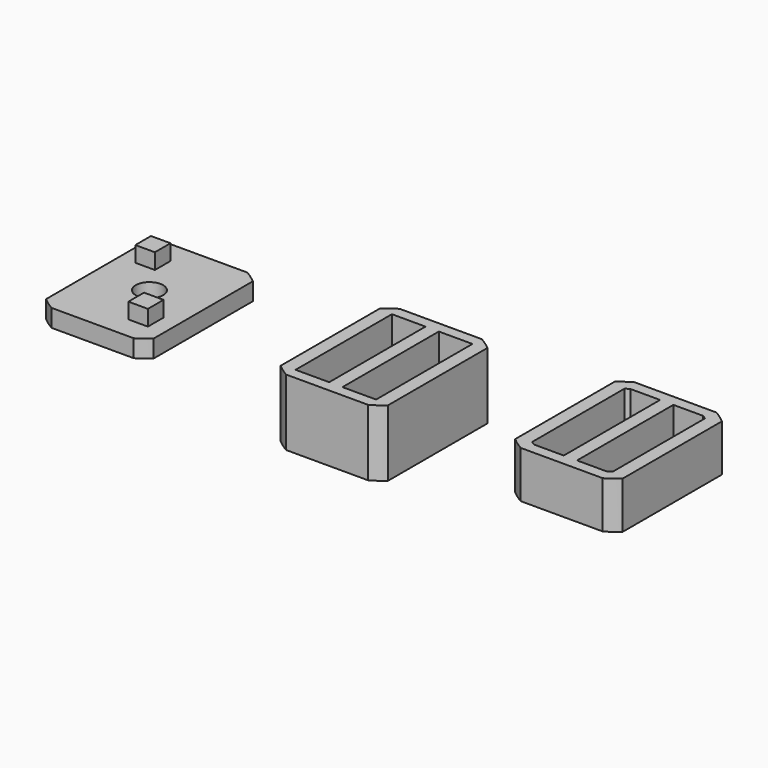
from build123d import *

# Parameters (mm, degrees)
F1_DEPTH  = 4.5
F2_DEPTH  = 4
F3_R      = 1.5
F4_DEPTH  = 1
F5_DEPTH  = 2.25
F6_R      = 1.75
F7_DEPTH  = 25
F8_W      = 2.5
F8_H      = 2.5
F9_DEPTH  = 2
F10_DEPTH = 6
F11_DEPTH = 2
F12_W     = 2.85
F12_H     = 2.85
F13_DEPTH = 25


with BuildPart() as f1:
    # F0 (on Top) → F1 (new body)
    with BuildSketch(Plane.XY):
        with BuildLine():
            Line((6.8591180191, -5.8268773799), (6.8591180191, 5.8268773799))
            ThreePointArc((6.8591180191, 5.8268773799), (6.0546235017, 6.6589439292), (5.15, 7.3808874805))
            Line((5.15, 7.3808874805), (5.15, -7.3808874805))
            ThreePointArc((5.15, -7.3808874805), (6.0546235017, -6.6589439292), (6.8591180191, -5.8268773799))
        make_face()
        with BuildLine():
            Line((6.8591180191, 5.8268773799), (6.8591180191, 7.95))
            ThreePointArc((6.8591180191, 7.95), (6.0814841535, 8.5595298054), (5.25, 9.0932667397))
            Line((5.25, 9.0932667397), (-5.25, 9.0932667397))
            ThreePointArc((-5.25, 9.0932667397), (-6.0814841535, 8.5595298054), (-6.8591180191, 7.95))
            Line((-6.8591180191, 7.95), (-6.8591180191, 5.8268773799))
            ThreePointArc((-6.8591180191, 5.8268773799), (-6.0546235017, 6.6589439292), (-5.15, 7.3808874805))
            Line((-5.15, 7.3808874805), (-5.15, 7.7))
            Line((-5.15, 7.7), (-4.6593991029, 7.7))
            ThreePointArc((-4.6593991029, 7.7), (0, 9), (4.6593991029, 7.7))
            Line((4.6593991029, 7.7), (5.15, 7.7))
            Line((5.15, 7.7), (5.15, 7.3808874805))
            ThreePointArc((5.15, 7.3808874805), (6.0546235017, 6.6589439292), (6.8591180191, 5.8268773799))
        make_face()
        with BuildLine():
            Line((0.85, 7.7), (4.6593991029, 7.7))
            ThreePointArc((4.6593991029, 7.7), (0, 9), (-4.6593991029, 7.7))
            Line((-4.6593991029, 7.7), (-0.85, 7.7))
            Line((-0.85, 7.7), (-0.85, -7.7))
            Line((-0.85, -7.7), (-4.6593991029, -7.7))
            ThreePointArc((-4.6593991029, -7.7), (0, -9), (4.6593991029, -7.7))
            Line((4.6593991029, -7.7), (0.85, -7.7))
            Line((0.85, -7.7), (0.85, 7.7))
        make_face()
        with BuildLine():
            ThreePointArc((-5.15, 7.3808874805), (-6.0546235017, 6.6589439292), (-6.8591180191, 5.8268773799))
            Line((-6.8591180191, 5.8268773799), (-6.8591180191, -5.8268773799))
            ThreePointArc((-6.8591180191, -5.8268773799), (-6.0546235017, -6.6589439292), (-5.15, -7.3808874805))
            Line((-5.15, -7.3808874805), (-5.15, 7.3808874805))
        make_face()
        with BuildLine():
            ThreePointArc((5.25, -9.0932667397), (6.0814841535, -8.5595298054), (6.8591180191, -7.95))
            Line((6.8591180191, -7.95), (6.8591180191, -5.8268773799))
            ThreePointArc((6.8591180191, -5.8268773799), (6.0546235017, -6.6589439292), (5.15, -7.3808874805))
            Line((5.15, -7.3808874805), (5.15, -7.7))
            Line((5.15, -7.7), (4.6593991029, -7.7))
            ThreePointArc((4.6593991029, -7.7), (0, -9), (-4.6593991029, -7.7))
            Line((-4.6593991029, -7.7), (-5.15, -7.7))
            Line((-5.15, -7.7), (-5.15, -7.3808874805))
            ThreePointArc((-5.15, -7.3808874805), (-6.0546235017, -6.6589439292), (-6.8591180191, -5.8268773799))
            Line((-6.8591180191, -5.8268773799), (-6.8591180191, -7.95))
            ThreePointArc((-6.8591180191, -7.95), (-6.0814841535, -8.5595298054), (-5.25, -9.0932667397))
            Line((-5.25, -9.0932667397), (5.25, -9.0932667397))
        make_face()
    extrude(amount=F1_DEPTH)

    # F0 (on Top) → F2 (join)
    with BuildSketch(Plane.XY):
        with BuildLine():
            Line((5.15, -7.3808874805), (5.15, 7.3808874805))
            ThreePointArc((5.15, 7.3808874805), (4.9072941516, 7.5444326566), (4.6593991029, 7.7))
            Line((4.6593991029, 7.7), (0.85, 7.7))
            Line((0.85, 7.7), (0.85, -7.7))
            Line((0.85, -7.7), (4.6593991029, -7.7))
            ThreePointArc((4.6593991029, -7.7), (4.9072941516, -7.5444326566), (5.15, -7.3808874805))
        make_face()
        with BuildLine():
            Line((-0.85, 7.7), (-4.6593991029, 7.7))
            ThreePointArc((-4.6593991029, 7.7), (-4.9072941516, 7.5444326566), (-5.15, 7.3808874805))
            Line((-5.15, 7.3808874805), (-5.15, -7.3808874805))
            ThreePointArc((-5.15, -7.3808874805), (-4.9072941516, -7.5444326566), (-4.6593991029, -7.7))
            Line((-4.6593991029, -7.7), (-0.85, -7.7))
            Line((-0.85, -7.7), (-0.85, 7.7))
        make_face()
        with BuildLine():
            Line((0.85, 7.7), (4.6593991029, 7.7))
            ThreePointArc((4.6593991029, 7.7), (0, 9), (-4.6593991029, 7.7))
            Line((-4.6593991029, 7.7), (-0.85, 7.7))
            Line((-0.85, 7.7), (-0.85, -7.7))
            Line((-0.85, -7.7), (-4.6593991029, -7.7))
            ThreePointArc((-4.6593991029, -7.7), (0, -9), (4.6593991029, -7.7))
            Line((4.6593991029, -7.7), (0.85, -7.7))
            Line((0.85, -7.7), (0.85, 7.7))
        make_face()
        with BuildLine():
            Line((6.8591180191, 5.8268773799), (6.8591180191, 7.95))
            ThreePointArc((6.8591180191, 7.95), (6.0814841535, 8.5595298054), (5.25, 9.0932667397))
            Line((5.25, 9.0932667397), (-5.25, 9.0932667397))
            ThreePointArc((-5.25, 9.0932667397), (-6.0814841535, 8.5595298054), (-6.8591180191, 7.95))
            Line((-6.8591180191, 7.95), (-6.8591180191, 5.8268773799))
            ThreePointArc((-6.8591180191, 5.8268773799), (-6.0546235017, 6.6589439292), (-5.15, 7.3808874805))
            Line((-5.15, 7.3808874805), (-5.15, 7.7))
            Line((-5.15, 7.7), (-4.6593991029, 7.7))
            ThreePointArc((-4.6593991029, 7.7), (0, 9), (4.6593991029, 7.7))
            Line((4.6593991029, 7.7), (5.15, 7.7))
            Line((5.15, 7.7), (5.15, 7.3808874805))
            ThreePointArc((5.15, 7.3808874805), (6.0546235017, 6.6589439292), (6.8591180191, 5.8268773799))
        make_face()
        with BuildLine():
            Line((6.8591180191, -5.8268773799), (6.8591180191, 5.8268773799))
            ThreePointArc((6.8591180191, 5.8268773799), (6.0546235017, 6.6589439292), (5.15, 7.3808874805))
            Line((5.15, 7.3808874805), (5.15, -7.3808874805))
            ThreePointArc((5.15, -7.3808874805), (6.0546235017, -6.6589439292), (6.8591180191, -5.8268773799))
        make_face()
        with BuildLine():
            ThreePointArc((4.6593991029, 7.7), (4.9072941516, 7.5444326566), (5.15, 7.3808874805))
            Line((5.15, 7.3808874805), (5.15, 7.7))
            Line((5.15, 7.7), (4.6593991029, 7.7))
        make_face()
        with BuildLine():
            ThreePointArc((5.25, -9.0932667397), (6.0814841535, -8.5595298054), (6.8591180191, -7.95))
            Line((6.8591180191, -7.95), (6.8591180191, -5.8268773799))
            ThreePointArc((6.8591180191, -5.8268773799), (6.0546235017, -6.6589439292), (5.15, -7.3808874805))
            Line((5.15, -7.3808874805), (5.15, -7.7))
            Line((5.15, -7.7), (4.6593991029, -7.7))
            ThreePointArc((4.6593991029, -7.7), (0, -9), (-4.6593991029, -7.7))
            Line((-4.6593991029, -7.7), (-5.15, -7.7))
            Line((-5.15, -7.7), (-5.15, -7.3808874805))
            ThreePointArc((-5.15, -7.3808874805), (-6.0546235017, -6.6589439292), (-6.8591180191, -5.8268773799))
            Line((-6.8591180191, -5.8268773799), (-6.8591180191, -7.95))
            ThreePointArc((-6.8591180191, -7.95), (-6.0814841535, -8.5595298054), (-5.25, -9.0932667397))
            Line((-5.25, -9.0932667397), (5.25, -9.0932667397))
        make_face()
        with BuildLine():
            ThreePointArc((-5.15, 7.3808874805), (-6.0546235017, 6.6589439292), (-6.8591180191, 5.8268773799))
            Line((-6.8591180191, 5.8268773799), (-6.8591180191, -5.8268773799))
            ThreePointArc((-6.8591180191, -5.8268773799), (-6.0546235017, -6.6589439292), (-5.15, -7.3808874805))
            Line((-5.15, -7.3808874805), (-5.15, 7.3808874805))
        make_face()
        with BuildLine():
            ThreePointArc((-5.15, 7.3808874805), (-4.9072941516, 7.5444326566), (-4.6593991029, 7.7))
            Line((-4.6593991029, 7.7), (-5.15, 7.7))
            Line((-5.15, 7.7), (-5.15, 7.3808874805))
        make_face()
        with BuildLine():
            Line((-5.15, -7.7), (-4.6593991029, -7.7))
            ThreePointArc((-4.6593991029, -7.7), (-4.9072941516, -7.5444326566), (-5.15, -7.3808874805))
            Line((-5.15, -7.3808874805), (-5.15, -7.7))
        make_face()
        with BuildLine():
            Line((5.15, -7.7), (5.15, -7.3808874805))
            ThreePointArc((5.15, -7.3808874805), (4.9072941516, -7.5444326566), (4.6593991029, -7.7))
            Line((4.6593991029, -7.7), (5.15, -7.7))
        make_face()
    extrude(amount=-F2_DEPTH)

    # F3 (on face) → F4 (cut)
    with BuildSketch(Plane(origin=(0, 0, -4), x_dir=(1, 0, 0), z_dir=(0, 0, -1))):
        Circle(F3_R)
    extrude(amount=-F4_DEPTH, mode=Mode.SUBTRACT)


with BuildPart() as f5:
    # F0 (on Top) → F5 (new body)
    with BuildSketch(Plane.XY):
        with BuildLine():
            ThreePointArc((-35.25, 9.0932667397), (-36.0814841535, 8.5595298054), (-36.8591180191, 7.95))
            Line((-36.8591180191, 7.95), (-36.8591180191, 5.8268773799))
            ThreePointArc((-36.8591180191, 5.8268773799), (-36.0546235017, 6.6589439292), (-35.15, 7.3808874805))
            Line((-35.15, 7.3808874805), (-35.15, 7.7))
            Line((-35.15, 7.7), (-34.6593991029, 7.7))
            ThreePointArc((-34.6593991029, 7.7), (-30, 9), (-25.3406008971, 7.7))
            Line((-25.3406008971, 7.7), (-24.85, 7.7))
            Line((-24.85, 7.7), (-24.85, 7.3808874805))
            ThreePointArc((-24.85, 7.3808874805), (-23.9453764983, 6.6589439292), (-23.1408819809, 5.8268773799))
            Line((-23.1408819809, 5.8268773799), (-23.1408819809, 7.95))
            ThreePointArc((-23.1408819809, 7.95), (-23.9185158465, 8.5595298054), (-24.75, 9.0932667397))
            Line((-24.75, 9.0932667397), (-35.25, 9.0932667397))
        make_face()
        with BuildLine():
            Line((-36.8591180191, 5.8268773799), (-36.8591180191, -5.8268773799))
            ThreePointArc((-36.8591180191, -5.8268773799), (-36.0546235017, -6.6589439292), (-35.15, -7.3808874805))
            Line((-35.15, -7.3808874805), (-35.15, 7.3808874805))
            ThreePointArc((-35.15, 7.3808874805), (-36.0546235017, 6.6589439292), (-36.8591180191, 5.8268773799))
        make_face()
        with BuildLine():
            Line((-35.15, 7.7), (-35.15, 7.3808874805))
            ThreePointArc((-35.15, 7.3808874805), (-34.9072941516, 7.5444326566), (-34.6593991029, 7.7))
            Line((-34.6593991029, 7.7), (-35.15, 7.7))
        make_face()
        with BuildLine():
            ThreePointArc((-34.6593991029, -7.7), (-30, -9), (-25.3406008971, -7.7))
            Line((-25.3406008971, -7.7), (-29.15, -7.7))
            Line((-29.15, -7.7), (-29.15, 7.7))
            Line((-29.15, 7.7), (-25.3406008971, 7.7))
            ThreePointArc((-25.3406008971, 7.7), (-30, 9), (-34.6593991029, 7.7))
            Line((-34.6593991029, 7.7), (-30.85, 7.7))
            Line((-30.85, 7.7), (-30.85, -7.7))
            Line((-30.85, -7.7), (-34.6593991029, -7.7))
        make_face()
        with BuildLine():
            Line((-35.15, 7.3808874805), (-35.15, -7.3808874805))
            ThreePointArc((-35.15, -7.3808874805), (-34.9072941516, -7.5444326566), (-34.6593991029, -7.7))
            Line((-34.6593991029, -7.7), (-30.85, -7.7))
            Line((-30.85, -7.7), (-30.85, 7.7))
            Line((-30.85, 7.7), (-34.6593991029, 7.7))
            ThreePointArc((-34.6593991029, 7.7), (-34.9072941516, 7.5444326566), (-35.15, 7.3808874805))
        make_face()
        with BuildLine():
            ThreePointArc((-25.3406008971, -7.7), (-25.0927058484, -7.5444326566), (-24.85, -7.3808874805))
            Line((-24.85, -7.3808874805), (-24.85, 7.3808874805))
            ThreePointArc((-24.85, 7.3808874805), (-25.0927058484, 7.5444326566), (-25.3406008971, 7.7))
            Line((-25.3406008971, 7.7), (-29.15, 7.7))
            Line((-29.15, 7.7), (-29.15, -7.7))
            Line((-29.15, -7.7), (-25.3406008971, -7.7))
        make_face()
        with BuildLine():
            ThreePointArc((-25.3406008971, 7.7), (-25.0927058484, 7.5444326566), (-24.85, 7.3808874805))
            Line((-24.85, 7.3808874805), (-24.85, 7.7))
            Line((-24.85, 7.7), (-25.3406008971, 7.7))
        make_face()
        with BuildLine():
            ThreePointArc((-24.85, -7.3808874805), (-23.9453764983, -6.6589439292), (-23.1408819809, -5.8268773799))
            Line((-23.1408819809, -5.8268773799), (-23.1408819809, 5.8268773799))
            ThreePointArc((-23.1408819809, 5.8268773799), (-23.9453764983, 6.6589439292), (-24.85, 7.3808874805))
            Line((-24.85, 7.3808874805), (-24.85, -7.3808874805))
        make_face()
        with BuildLine():
            Line((-35.25, -9.0932667397), (-24.75, -9.0932667397))
            ThreePointArc((-24.75, -9.0932667397), (-23.9185158465, -8.5595298054), (-23.1408819809, -7.95))
            Line((-23.1408819809, -7.95), (-23.1408819809, -5.8268773799))
            ThreePointArc((-23.1408819809, -5.8268773799), (-23.9453764983, -6.6589439292), (-24.85, -7.3808874805))
            Line((-24.85, -7.3808874805), (-24.85, -7.7))
            Line((-24.85, -7.7), (-25.3406008971, -7.7))
            ThreePointArc((-25.3406008971, -7.7), (-30, -9), (-34.6593991029, -7.7))
            Line((-34.6593991029, -7.7), (-35.15, -7.7))
            Line((-35.15, -7.7), (-35.15, -7.3808874805))
            ThreePointArc((-35.15, -7.3808874805), (-36.0546235017, -6.6589439292), (-36.8591180191, -5.8268773799))
            Line((-36.8591180191, -5.8268773799), (-36.8591180191, -7.95))
            ThreePointArc((-36.8591180191, -7.95), (-36.0814841535, -8.5595298054), (-35.25, -9.0932667397))
        make_face()
        with BuildLine():
            Line((-24.85, -7.7), (-24.85, -7.3808874805))
            ThreePointArc((-24.85, -7.3808874805), (-25.0927058484, -7.5444326566), (-25.3406008971, -7.7))
            Line((-25.3406008971, -7.7), (-24.85, -7.7))
        make_face()
        with BuildLine():
            ThreePointArc((-34.6593991029, -7.7), (-34.9072941516, -7.5444326566), (-35.15, -7.3808874805))
            Line((-35.15, -7.3808874805), (-35.15, -7.7))
            Line((-35.15, -7.7), (-34.6593991029, -7.7))
        make_face()
    extrude(amount=F5_DEPTH)

    # F6 (on face) → F7 (cut)
    with BuildSketch(Plane.XY.offset(2.25)):
        with Locations((-30, 0)):
            Circle(F6_R)
    extrude(amount=-F7_DEPTH, mode=Mode.SUBTRACT)

    # F8 (on face) → F9 (join)
    with BuildSketch(Plane.XY.offset(2.25)):
        with Locations((-33.5524639155, 5)):
            Rectangle(F8_W, F8_H)
        with Locations((-26.4475360845, -5)):
            Rectangle(F8_W, F8_H)
    extrude(amount=F9_DEPTH)


with BuildPart() as f10:
    # F0 (on Top) → F10 (new body)
    with BuildSketch(Plane.XY):
        with BuildLine():
            ThreePointArc((25.3406008971, -7.7), (30, -9), (34.6593991029, -7.7))
            Line((34.6593991029, -7.7), (30.85, -7.7))
            Line((30.85, -7.7), (30.85, 7.7))
            Line((30.85, 7.7), (34.6593991029, 7.7))
            ThreePointArc((34.6593991029, 7.7), (30, 9), (25.3406008971, 7.7))
            Line((25.3406008971, 7.7), (29.15, 7.7))
            Line((29.15, 7.7), (29.15, -7.7))
            Line((29.15, -7.7), (25.3406008971, -7.7))
        make_face()
        with BuildLine():
            Line((24.75, -9.0932667397), (35.25, -9.0932667397))
            ThreePointArc((35.25, -9.0932667397), (36.0814841535, -8.5595298054), (36.8591180191, -7.95))
            Line((36.8591180191, -7.95), (36.8591180191, -5.8268773799))
            ThreePointArc((36.8591180191, -5.8268773799), (36.0546235017, -6.6589439292), (35.15, -7.3808874805))
            Line((35.15, -7.3808874805), (35.15, -7.7))
            Line((35.15, -7.7), (34.6593991029, -7.7))
            ThreePointArc((34.6593991029, -7.7), (30, -9), (25.3406008971, -7.7))
            Line((25.3406008971, -7.7), (24.85, -7.7))
            Line((24.85, -7.7), (24.85, -7.3808874805))
            ThreePointArc((24.85, -7.3808874805), (23.9453764983, -6.6589439292), (23.1408819809, -5.8268773799))
            Line((23.1408819809, -5.8268773799), (23.1408819809, -7.95))
            ThreePointArc((23.1408819809, -7.95), (23.9185158465, -8.5595298054), (24.75, -9.0932667397))
        make_face()
        with BuildLine():
            ThreePointArc((35.15, -7.3808874805), (36.0546235017, -6.6589439292), (36.8591180191, -5.8268773799))
            Line((36.8591180191, -5.8268773799), (36.8591180191, 5.8268773799))
            ThreePointArc((36.8591180191, 5.8268773799), (36.0546235017, 6.6589439292), (35.15, 7.3808874805))
            Line((35.15, 7.3808874805), (35.15, -7.3808874805))
        make_face()
        with BuildLine():
            ThreePointArc((24.75, 9.0932667397), (23.9185158465, 8.5595298054), (23.1408819809, 7.95))
            Line((23.1408819809, 7.95), (23.1408819809, 5.8268773799))
            ThreePointArc((23.1408819809, 5.8268773799), (23.9453764983, 6.6589439292), (24.85, 7.3808874805))
            Line((24.85, 7.3808874805), (24.85, 7.7))
            Line((24.85, 7.7), (25.3406008971, 7.7))
            ThreePointArc((25.3406008971, 7.7), (30, 9), (34.6593991029, 7.7))
            Line((34.6593991029, 7.7), (35.15, 7.7))
            Line((35.15, 7.7), (35.15, 7.3808874805))
            ThreePointArc((35.15, 7.3808874805), (36.0546235017, 6.6589439292), (36.8591180191, 5.8268773799))
            Line((36.8591180191, 5.8268773799), (36.8591180191, 7.95))
            ThreePointArc((36.8591180191, 7.95), (36.0814841535, 8.5595298054), (35.25, 9.0932667397))
            Line((35.25, 9.0932667397), (24.75, 9.0932667397))
        make_face()
        with BuildLine():
            Line((23.1408819809, 5.8268773799), (23.1408819809, -5.8268773799))
            ThreePointArc((23.1408819809, -5.8268773799), (23.9453764983, -6.6589439292), (24.85, -7.3808874805))
            Line((24.85, -7.3808874805), (24.85, 7.3808874805))
            ThreePointArc((24.85, 7.3808874805), (23.9453764983, 6.6589439292), (23.1408819809, 5.8268773799))
        make_face()
        with BuildLine():
            Line((24.85, 7.7), (24.85, 7.3808874805))
            ThreePointArc((24.85, 7.3808874805), (25.0927058484, 7.5444326566), (25.3406008971, 7.7))
            Line((25.3406008971, 7.7), (24.85, 7.7))
        make_face()
        with BuildLine():
            ThreePointArc((34.6593991029, 7.7), (34.9072941516, 7.5444326566), (35.15, 7.3808874805))
            Line((35.15, 7.3808874805), (35.15, 7.7))
            Line((35.15, 7.7), (34.6593991029, 7.7))
        make_face()
        with BuildLine():
            Line((35.15, -7.7), (35.15, -7.3808874805))
            ThreePointArc((35.15, -7.3808874805), (34.9072941516, -7.5444326566), (34.6593991029, -7.7))
            Line((34.6593991029, -7.7), (35.15, -7.7))
        make_face()
        with BuildLine():
            ThreePointArc((25.3406008971, -7.7), (25.0927058484, -7.5444326566), (24.85, -7.3808874805))
            Line((24.85, -7.3808874805), (24.85, -7.7))
            Line((24.85, -7.7), (25.3406008971, -7.7))
        make_face()
    extrude(amount=F10_DEPTH)

    # F0 (on Top) → F11 (join)
    with BuildSketch(Plane.XY):
        with BuildLine():
            Line((23.1408819809, 5.8268773799), (23.1408819809, -5.8268773799))
            ThreePointArc((23.1408819809, -5.8268773799), (23.9453764983, -6.6589439292), (24.85, -7.3808874805))
            Line((24.85, -7.3808874805), (24.85, 7.3808874805))
            ThreePointArc((24.85, 7.3808874805), (23.9453764983, 6.6589439292), (23.1408819809, 5.8268773799))
        make_face()
        with BuildLine():
            Line((24.85, 7.3808874805), (24.85, -7.3808874805))
            ThreePointArc((24.85, -7.3808874805), (25.0927058484, -7.5444326566), (25.3406008971, -7.7))
            Line((25.3406008971, -7.7), (29.15, -7.7))
            Line((29.15, -7.7), (29.15, 7.7))
            Line((29.15, 7.7), (25.3406008971, 7.7))
            ThreePointArc((25.3406008971, 7.7), (25.0927058484, 7.5444326566), (24.85, 7.3808874805))
        make_face()
        with BuildLine():
            ThreePointArc((25.3406008971, -7.7), (30, -9), (34.6593991029, -7.7))
            Line((34.6593991029, -7.7), (30.85, -7.7))
            Line((30.85, -7.7), (30.85, 7.7))
            Line((30.85, 7.7), (34.6593991029, 7.7))
            ThreePointArc((34.6593991029, 7.7), (30, 9), (25.3406008971, 7.7))
            Line((25.3406008971, 7.7), (29.15, 7.7))
            Line((29.15, 7.7), (29.15, -7.7))
            Line((29.15, -7.7), (25.3406008971, -7.7))
        make_face()
        with BuildLine():
            ThreePointArc((34.6593991029, -7.7), (34.9072941516, -7.5444326566), (35.15, -7.3808874805))
            Line((35.15, -7.3808874805), (35.15, 7.3808874805))
            ThreePointArc((35.15, 7.3808874805), (34.9072941516, 7.5444326566), (34.6593991029, 7.7))
            Line((34.6593991029, 7.7), (30.85, 7.7))
            Line((30.85, 7.7), (30.85, -7.7))
            Line((30.85, -7.7), (34.6593991029, -7.7))
        make_face()
        with BuildLine():
            Line((24.75, -9.0932667397), (35.25, -9.0932667397))
            ThreePointArc((35.25, -9.0932667397), (36.0814841535, -8.5595298054), (36.8591180191, -7.95))
            Line((36.8591180191, -7.95), (36.8591180191, -5.8268773799))
            ThreePointArc((36.8591180191, -5.8268773799), (36.0546235017, -6.6589439292), (35.15, -7.3808874805))
            Line((35.15, -7.3808874805), (35.15, -7.7))
            Line((35.15, -7.7), (34.6593991029, -7.7))
            ThreePointArc((34.6593991029, -7.7), (30, -9), (25.3406008971, -7.7))
            Line((25.3406008971, -7.7), (24.85, -7.7))
            Line((24.85, -7.7), (24.85, -7.3808874805))
            ThreePointArc((24.85, -7.3808874805), (23.9453764983, -6.6589439292), (23.1408819809, -5.8268773799))
            Line((23.1408819809, -5.8268773799), (23.1408819809, -7.95))
            ThreePointArc((23.1408819809, -7.95), (23.9185158465, -8.5595298054), (24.75, -9.0932667397))
        make_face()
        with BuildLine():
            ThreePointArc((35.15, -7.3808874805), (36.0546235017, -6.6589439292), (36.8591180191, -5.8268773799))
            Line((36.8591180191, -5.8268773799), (36.8591180191, 5.8268773799))
            ThreePointArc((36.8591180191, 5.8268773799), (36.0546235017, 6.6589439292), (35.15, 7.3808874805))
            Line((35.15, 7.3808874805), (35.15, -7.3808874805))
        make_face()
        with BuildLine():
            ThreePointArc((24.75, 9.0932667397), (23.9185158465, 8.5595298054), (23.1408819809, 7.95))
            Line((23.1408819809, 7.95), (23.1408819809, 5.8268773799))
            ThreePointArc((23.1408819809, 5.8268773799), (23.9453764983, 6.6589439292), (24.85, 7.3808874805))
            Line((24.85, 7.3808874805), (24.85, 7.7))
            Line((24.85, 7.7), (25.3406008971, 7.7))
            ThreePointArc((25.3406008971, 7.7), (30, 9), (34.6593991029, 7.7))
            Line((34.6593991029, 7.7), (35.15, 7.7))
            Line((35.15, 7.7), (35.15, 7.3808874805))
            ThreePointArc((35.15, 7.3808874805), (36.0546235017, 6.6589439292), (36.8591180191, 5.8268773799))
            Line((36.8591180191, 5.8268773799), (36.8591180191, 7.95))
            ThreePointArc((36.8591180191, 7.95), (36.0814841535, 8.5595298054), (35.25, 9.0932667397))
            Line((35.25, 9.0932667397), (24.75, 9.0932667397))
        make_face()
        with BuildLine():
            ThreePointArc((34.6593991029, 7.7), (34.9072941516, 7.5444326566), (35.15, 7.3808874805))
            Line((35.15, 7.3808874805), (35.15, 7.7))
            Line((35.15, 7.7), (34.6593991029, 7.7))
        make_face()
        with BuildLine():
            Line((24.85, 7.7), (24.85, 7.3808874805))
            ThreePointArc((24.85, 7.3808874805), (25.0927058484, 7.5444326566), (25.3406008971, 7.7))
            Line((25.3406008971, 7.7), (24.85, 7.7))
        make_face()
        with BuildLine():
            ThreePointArc((25.3406008971, -7.7), (25.0927058484, -7.5444326566), (24.85, -7.3808874805))
            Line((24.85, -7.3808874805), (24.85, -7.7))
            Line((24.85, -7.7), (25.3406008971, -7.7))
        make_face()
        with BuildLine():
            Line((35.15, -7.7), (35.15, -7.3808874805))
            ThreePointArc((35.15, -7.3808874805), (34.9072941516, -7.5444326566), (34.6593991029, -7.7))
            Line((34.6593991029, -7.7), (35.15, -7.7))
        make_face()
    extrude(amount=F11_DEPTH)

    # F12 (on face) → F13 (cut)
    with BuildSketch(Plane(origin=(0, 0, 0), x_dir=(1, 0, 0), z_dir=(0, 0, -1))):
        with Locations((33.5524639155, 5)):
            Rectangle(F12_W, F12_H)
        with Locations((26.4475360845, -5)):
            Rectangle(F12_W, F12_H)
    extrude(amount=-F13_DEPTH, mode=Mode.SUBTRACT)


solid = Compound([f1.part, f5.part, f10.part])
